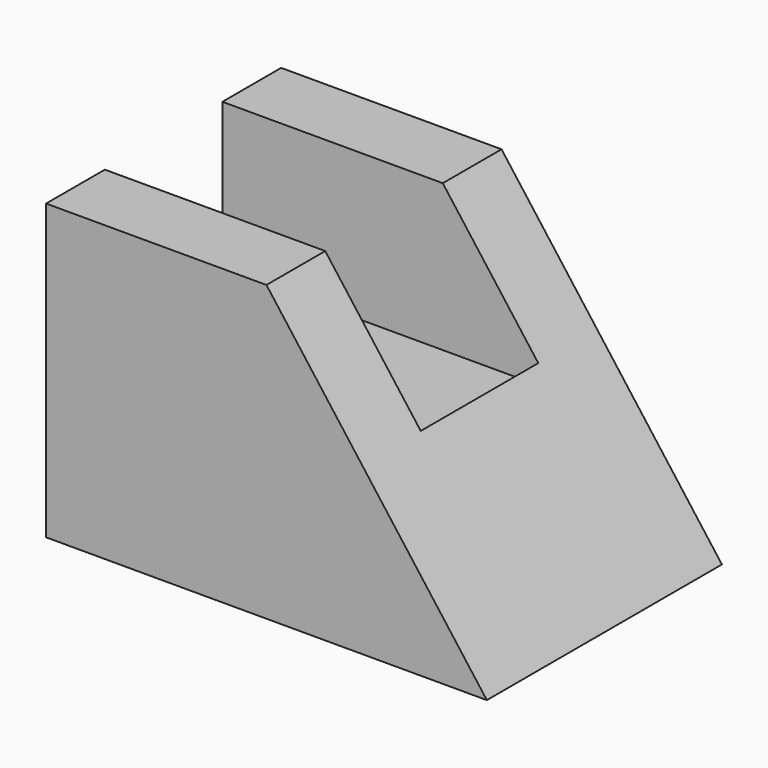
from build123d import *

# Parameters (mm, degrees)
F0_W     = 30
F0_H     = 10
F1_DEPTH = 40
F2_DEPTH = 20
F4_DEPTH = 40


with BuildPart() as f1:
    # F0 (on Top) → F1 (new body)
    with BuildSketch(Plane.XY):
        with Locations((15, 5)):
            Rectangle(F0_W, F0_H)
        with Locations((15, 35)):
            Rectangle(F0_W, F0_H)
        Polygon((30, 10), (30, 0), (60, 0), (60, 40), (30, 40), (30, 30), (43, 30), (43, 10), align=None)
    extrude(amount=F1_DEPTH)

    # F3 (on face) → F4 (cut)
    with BuildSketch(Plane.XZ):
        Polygon((60, 40), (30, 40), (60, 0), align=None)
    extrude(amount=-F4_DEPTH, mode=Mode.SUBTRACT)


with BuildPart() as f2:
    # F0 (on Top) → F2 (new body)
    with BuildSketch(Plane.XY):
        Polygon((0, 30), (0, 10), (30, 10), (43, 10), (43, 30), (30, 30), align=None)
    extrude(amount=F2_DEPTH)


solid = Compound([f1.part, f2.part])
